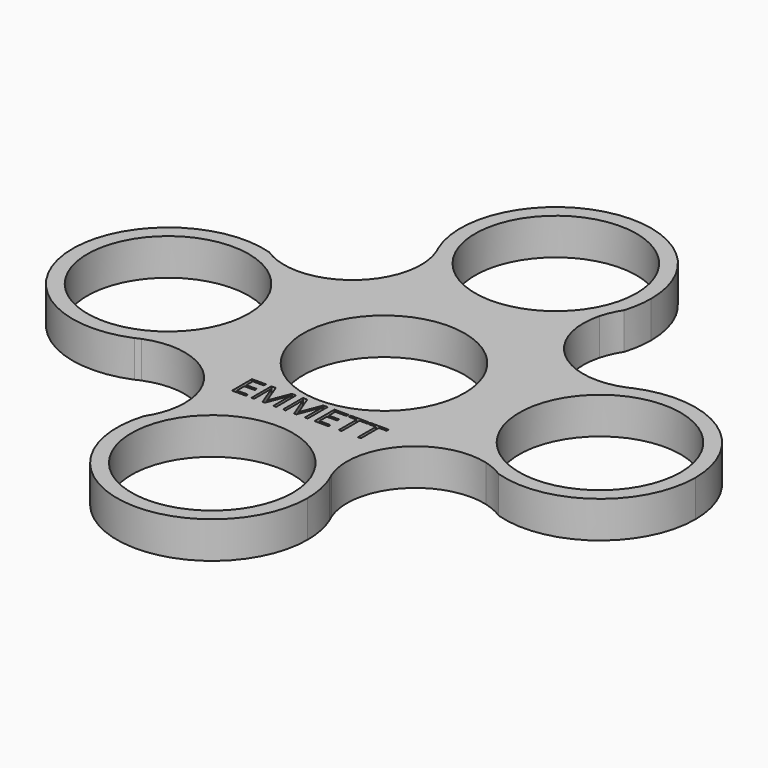
from build123d import *

# Parameters (mm, degrees)
F0_R     = 11
F1_DEPTH = 5


with BuildPart() as f1:
    # F0 (on Top) → F1 (new body)
    with BuildSketch(Plane.XY):
        with BuildLine():
            ThreePointArc((24.3693606457, 12.0805580484), (24.0077279335, 11.9071162023), (23.6389782963, 11.7493695776))
            ThreePointArc((23.6389782963, 11.7493695776), (16.3793921161, 0.5682163901), (22.7809509477, -11.1253640126))
            ThreePointArc((22.7809509477, -11.1253640126), (24.1883269703, -11.6184397697), (25.4992191241, -12.3293495618))
            ThreePointArc((25.4992191241, -12.3293495618), (37.0733893442, -10.3910189502), (42.3702563381, 0.0809312927))
            ThreePointArc((42.3702563381, 0.0809312927), (36.5809551946, 10.8978542378), (24.3693606457, 12.0805580484))
        make_face()
        with Locations((29.3702563381, 0.0809312927)):
            Circle(F0_R, mode=Mode.SUBTRACT)
        with BuildLine():
            ThreePointArc((12.0805580484, -24.3693606457), (11.9071162023, -24.0077279335), (11.7493695776, -23.6389782963))
            ThreePointArc((11.7493695776, -23.6389782963), (0.5682163901, -16.3793921161), (-11.1253640126, -22.7809509477))
            ThreePointArc((-11.1253640126, -22.7809509477), (-11.6184397697, -24.1883269703), (-12.3293495618, -25.4992191241))
            ThreePointArc((-12.3293495618, -25.4992191241), (-1.8769181513, -42.2219809521), (13.0809312927, -29.3702563381))
            ThreePointArc((13.0809312927, -29.3702563381), (12.8283849173, -26.8202708306), (12.0805580484, -24.3693606457))
        make_face()
        with Locations((0.0809312927, -29.3702563381)):
            Circle(F0_R, mode=Mode.SUBTRACT)
        with BuildLine():
            ThreePointArc((-16.3702563381, -0.0809312927), (-18.0861752928, 6.3742615752), (-22.7809509477, 11.1253640126))
            ThreePointArc((-22.7809509477, 11.1253640126), (-24.1883269703, 11.6184397697), (-25.4992191241, 12.3293495618))
            ThreePointArc((-25.4992191241, 12.3293495618), (-42.3563525859, -0.6820171789), (-24.3693606457, -12.0805580484))
            ThreePointArc((-24.3693606457, -12.0805580484), (-24.0077279335, -11.9071162023), (-23.6389782963, -11.7493695776))
            ThreePointArc((-23.6389782963, -11.7493695776), (-18.336068227, -6.9545542624), (-16.3702563381, -0.0809312927))
        make_face()
        with Locations((-29.3702563381, -0.0809312927)):
            Circle(F0_R, mode=Mode.SUBTRACT)
        with BuildLine():
            ThreePointArc((12.3293495618, 25.4992191241), (12.7707933213, 27.412406894), (12.9190687073, 29.3702563381))
            ThreePointArc((12.9190687073, 29.3702563381), (-2.6309168002, 42.1177099627), (-12.0805580484, 24.3693606457))
            ThreePointArc((-12.0805580484, 24.3693606457), (-11.9071162023, 24.0077279335), (-11.7493695776, 23.6389782963))
            ThreePointArc((-11.7493695776, 23.6389782963), (-0.5682163901, 16.3793921161), (11.1253640126, 22.7809509477))
            ThreePointArc((11.1253640126, 22.7809509477), (11.6184397697, 24.1883269703), (12.3293495618, 25.4992191241))
        make_face()
        with Locations((-0.0809312927, 29.3702563381)):
            Circle(F0_R, mode=Mode.SUBTRACT)
        with BuildLine():
            ThreePointArc((11.1253640126, 22.7809509477), (-0.5682163901, 16.3793921161), (-11.7493695776, 23.6389782963))
            ThreePointArc((-11.7493695776, 23.6389782963), (-13.4063117417, 13.9803401177), (-22.7809509477, 11.1253640126))
            ThreePointArc((-22.7809509477, 11.1253640126), (-18.0861752928, 6.3742615752), (-16.3702563381, -0.0809312927))
            ThreePointArc((-16.3702563381, -0.0809312927), (-18.336068227, -6.9545542624), (-23.6389782963, -11.7493695776))
            ThreePointArc((-23.6389782963, -11.7493695776), (-13.9803401177, -13.4063117417), (-11.1253640126, -22.7809509477))
            ThreePointArc((-11.1253640126, -22.7809509477), (0.5682163901, -16.3793921161), (11.7493695776, -23.6389782963))
            ThreePointArc((11.7493695776, -23.6389782963), (13.4063117417, -13.9803401177), (22.7809509477, -11.1253640126))
            ThreePointArc((22.7809509477, -11.1253640126), (16.3793921161, 0.5682163901), (23.6389782963, 11.7493695776))
            ThreePointArc((23.6389782963, 11.7493695776), (13.9803401177, 13.4063117417), (11.1253640126, 22.7809509477))
        make_face()
        Polygon((-6.780023326, -14.6987217482), (-6.780023326, -15.0520168245), (-8.6744287142, -15.0520168245), (-8.6744287142, -11.6536900799), (-6.780023326, -11.6536900799), (-6.780023326, -12.0047538189), (-8.2794820078, -12.0047538189), (-8.2794820078, -13.0995966659), (-6.8707643772, -13.0995966659), (-6.8707643772, -13.4484290676), (-8.2794820078, -13.4484290676), (-8.2794820078, -14.6987217482), align=None, mode=Mode.SUBTRACT)
        with BuildLine():
            Line((-4.205060054, -15.0520168245), (-4.5233975123, -15.0520168245))
            Line((-4.5233975123, -15.0520168245), (-5.6762551297, -12.039711437))
            Line((-5.6762551297, -12.039711437), (-5.6948496074, -12.039711437))
            add(Edge.make_bspline(
                [(-5.6948496074, -12.039711437), (-5.6621233267, -12.3974691879), (-5.6621233267, -12.8905947365)],
                knots=[0, 0, 0, 1, 1, 1], degree=2))
            Line((-5.6621233267, -12.8905947365), (-5.6621233267, -15.0520168245))
            Line((-5.6621233267, -15.0520168245), (-6.0273188687, -15.0520168245))
            Line((-6.0273188687, -15.0520168245), (-6.0273188687, -11.6536900799))
            Line((-6.0273188687, -11.6536900799), (-5.4322955823, -11.6536900799))
            Line((-5.4322955823, -11.6536900799), (-4.3560472129, -14.4569935381))
            Line((-4.3560472129, -14.4569935381), (-4.3374527352, -14.4569935381))
            Line((-4.3374527352, -14.4569935381), (-3.2522790166, -11.6536900799))
            Line((-3.2522790166, -11.6536900799), (-2.6617184049, -11.6536900799))
            Line((-2.6617184049, -11.6536900799), (-2.6617184049, -15.0520168245))
            Line((-2.6617184049, -15.0520168245), (-3.0566651112, -15.0520168245))
            Line((-3.0566651112, -15.0520168245), (-3.0566651112, -12.8623311304))
            add(Edge.make_bspline(
                [(-3.0566651112, -12.8623311304), (-3.0566651112, -12.4859789018), (-3.0239388305, -12.0441741116)],
                knots=[0, 0, 0, 1, 1, 1], degree=2))
            Line((-3.0239388305, -12.0441741116), (-3.0425333082, -12.0441741116))
            Line((-3.0425333082, -12.0441741116), (-4.205060054, -15.0520168245))
        make_face(mode=Mode.SUBTRACT)
        with BuildLine():
            Line((0.0924956322, -15.0520168245), (-0.225841826, -15.0520168245))
            Line((-0.225841826, -15.0520168245), (-1.3786994435, -12.039711437))
            Line((-1.3786994435, -12.039711437), (-1.3972939212, -12.039711437))
            add(Edge.make_bspline(
                [(-1.3972939212, -12.039711437), (-1.3645676404, -12.3974691879), (-1.3645676404, -12.8905947365)],
                knots=[0, 0, 0, 1, 1, 1], degree=2))
            Line((-1.3645676404, -12.8905947365), (-1.3645676404, -15.0520168245))
            Line((-1.3645676404, -15.0520168245), (-1.7297631825, -15.0520168245))
            Line((-1.7297631825, -15.0520168245), (-1.7297631825, -11.6536900799))
            Line((-1.7297631825, -11.6536900799), (-1.1347398961, -11.6536900799))
            Line((-1.1347398961, -11.6536900799), (-0.0584915267, -14.4569935381))
            Line((-0.0584915267, -14.4569935381), (-0.039897049, -14.4569935381))
            Line((-0.039897049, -14.4569935381), (1.0452766696, -11.6536900799))
            Line((1.0452766696, -11.6536900799), (1.6358372814, -11.6536900799))
            Line((1.6358372814, -11.6536900799), (1.6358372814, -15.0520168245))
            Line((1.6358372814, -15.0520168245), (1.240890575, -15.0520168245))
            Line((1.240890575, -15.0520168245), (1.240890575, -12.8623311304))
            add(Edge.make_bspline(
                [(1.240890575, -12.8623311304), (1.240890575, -12.4859789018), (1.2736168557, -12.0441741116)],
                knots=[0, 0, 0, 1, 1, 1], degree=2))
            Line((1.2736168557, -12.0441741116), (1.255022378, -12.0441741116))
            Line((1.255022378, -12.0441741116), (0.0924956322, -15.0520168245))
        make_face(mode=Mode.SUBTRACT)
        Polygon((4.4621978919, -14.6987217482), (4.4621978919, -15.0520168245), (2.5677925037, -15.0520168245), (2.5677925037, -11.6536900799), (4.4621978919, -11.6536900799), (4.4621978919, -12.0047538189), (2.9627392101, -12.0047538189), (2.9627392101, -13.0995966659), (4.3714568407, -13.0995966659), (4.3714568407, -13.4484290676), (2.9627392101, -13.4484290676), (2.9627392101, -14.6987217482), align=None, mode=Mode.SUBTRACT)
        Polygon((6.2606557751, -12.0047538189), (6.2606557751, -15.0520168245), (5.8657090687, -15.0520168245), (5.8657090687, -12.0047538189), (4.7894606994, -12.0047538189), (4.7894606994, -11.6536900799), (7.3369041444, -11.6536900799), (7.3369041444, -12.0047538189), align=None, mode=Mode.SUBTRACT)
        Polygon((8.8943775966, -12.0047538189), (8.8943775966, -15.0520168245), (8.4994308903, -15.0520168245), (8.4994308903, -12.0047538189), (7.423182521, -12.0047538189), (7.423182521, -11.6536900799), (9.970625966, -11.6536900799), (9.970625966, -12.0047538189), align=None, mode=Mode.SUBTRACT)
        Circle(F0_R, mode=Mode.SUBTRACT)
    extrude(amount=F1_DEPTH)


solid = f1.part
